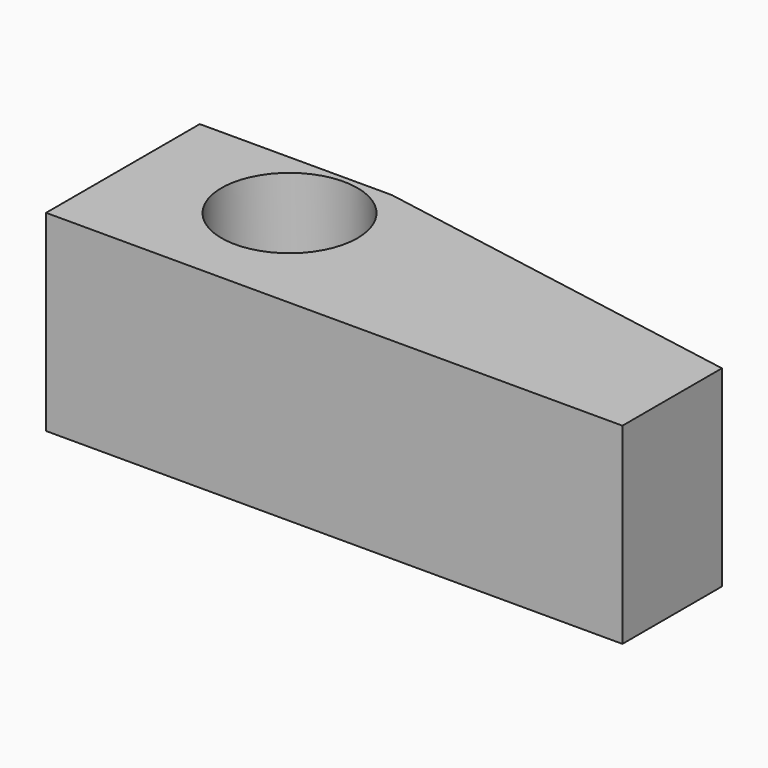
from build123d import *

# Parameters (mm, degrees)
F1_DEPTH = 25.4
F2_R     = 8.987675
F3_DEPTH = 84.836


with BuildPart() as f1:
    # F0 (on Top) → F1 (new body)
    with BuildSketch(Plane.XY):
        Polygon((0, 25.4), (0, 0), (76.2, 0), (76.2, 16.442589), (25.4, 25.4), align=None)
    extrude(amount=F1_DEPTH)

    # F2 (on face) → F3 (cut)
    with BuildSketch(Plane.XY.offset(25.4)):
        with Locations((19.65815, 15.655642)):
            Circle(F2_R)
    extrude(amount=-F3_DEPTH, mode=Mode.SUBTRACT)


solid = f1.part
